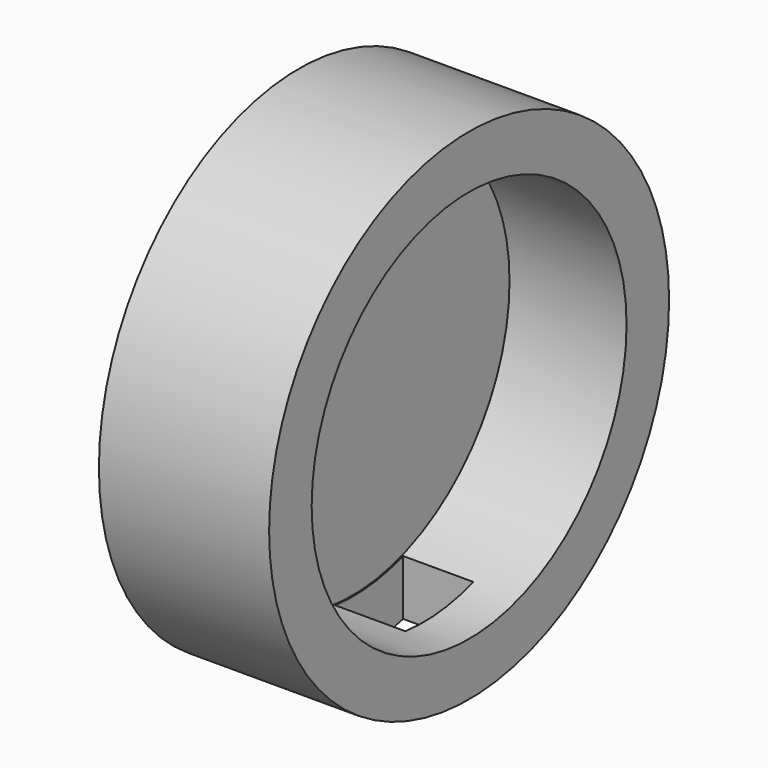
from build123d import *

# Parameters (mm, degrees)
F0_R     = 11.75
F1_DEPTH = 8
F2_T     = -2.5
F3_W     = 3.3
F3_H     = 4
F4_DEPTH = 25


with BuildPart() as f1:
    # F0 (on Right) → F1 (new body)
    with BuildSketch(Plane.YZ):
        with Locations((-7.938508, 23.813721)):
            Circle(F0_R)
    extrude(amount=F1_DEPTH)

    # F2
    f2_openings = [f1.faces().sort_by_distance(p)[0] for p in [
        (8, -7.938508, 23.813721),
    ]]
    offset(amount=F2_T, openings=f2_openings)

    # F3 (on Top) → F4 (cut)
    with BuildSketch(Plane.XY):
        with Locations((4.21131, -7.012647)):
            Rectangle(F3_W, F3_H)
    extrude(amount=F4_DEPTH, mode=Mode.SUBTRACT)


solid = f1.part
